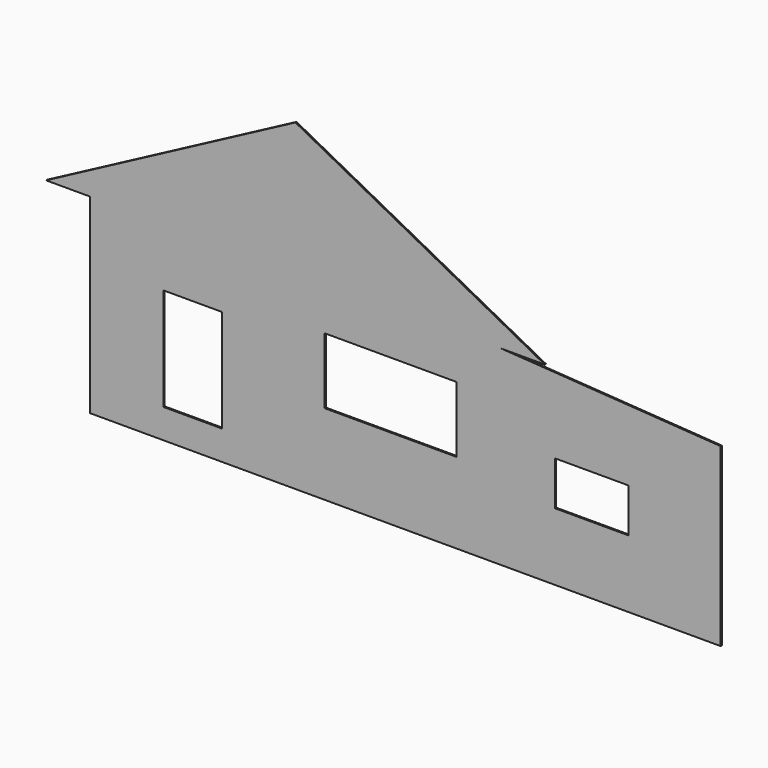
from build123d import *

# Parameters (mm, degrees)
F0_W     = 2743.2
F0_H     = 1371.6
F0_W_2   = 1524
F0_H_2   = 914.4
F0_W_3   = 4572
F0_H_3   = 609.6
F1_DEPTH = 30.48


with BuildPart() as f1:
    # F0 (on Front) → F1 (new body)
    with BuildSketch(Plane.XZ):
        Polygon((-5181.6, 0), (-4267.2, 0), (0, 2286), (0, 2743.2), align=None)
        Polygon((0, 2286), (4267.2, 0), (5181.6, 0), (0, 2743.2), align=None)
        Polygon((-4267.2, 0), (0, 0), (0, 2286), align=None)
        Polygon((0, 2286), (0, 0), (4267.2, 0), align=None)
        Polygon((4267.2, 0), (0, 0), (-4267.2, 0), (-4267.2, -3352.8), (-3048, -3352.8), (-3048, -914.4), (-1219.2, -914.4), (-1219.2, -3352.8), (4267.2, -3352.8), (4267.2, -609.6), align=None)
        with Locations((1981.2, -1600.2)):
            Rectangle(F0_W, F0_H, mode=Mode.SUBTRACT)
        Polygon((8839.2, -304.8), (4267.2, 0), (4267.2, -609.6), (8839.2, -914.4), align=None)
        Polygon((8839.2, -914.4), (4267.2, -609.6), (4267.2, -3352.8), (8839.2, -3352.8), align=None)
        with Locations((6156.96, -2103.12)):
            Rectangle(F0_W_2, F0_H_2, mode=Mode.SUBTRACT)
        Polygon((-3048, -3352.8), (-4267.2, -3352.8), (-4267.2, -3962.4), (4267.2, -3962.4), (4267.2, -3352.8), (-1219.2, -3352.8), (-1524, -3352.8), (-2743.2, -3352.8), align=None)
        with Locations((6553.2, -3657.6)):
            Rectangle(F0_W_3, F0_H_3)
        Polygon((-3048, -914.4), (-3048, -3352.8), (-2743.2, -3352.8), (-2743.2, -1219.2), (-1524, -1219.2), (-1524, -3352.8), (-1219.2, -3352.8), (-1219.2, -914.4), align=None)
    extrude(amount=F1_DEPTH)


solid = f1.part
